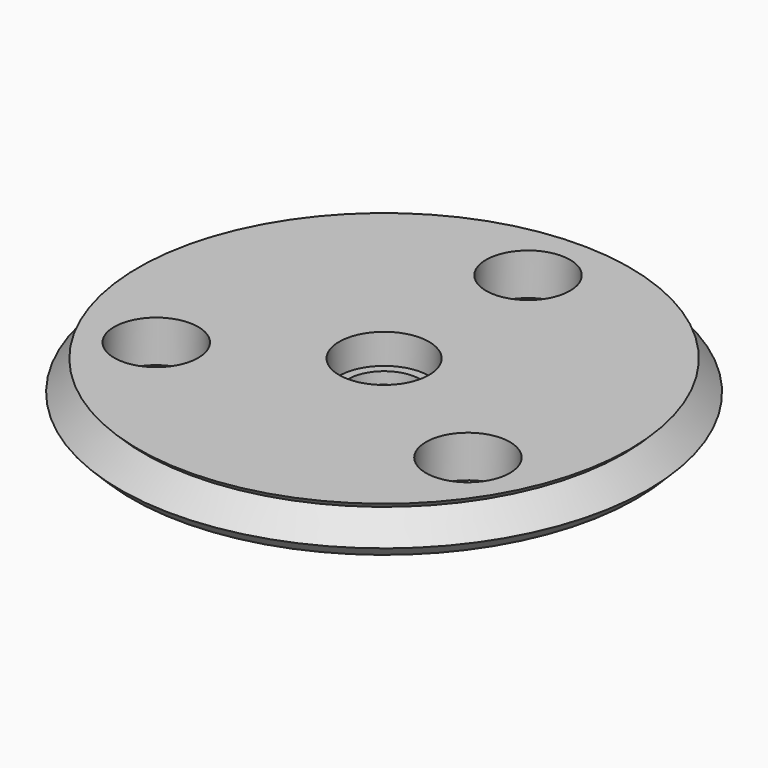
from build123d import *

# Parameters (mm, degrees)
CYLINDER_R     = 1.4
CYLINDER_DEPTH = 10
ARRAY001_COUNT = 3
SKETCH018_W    = 3.15
SKETCH018_H    = 2.3
SKETCH002_W    = 5
SKETCH002_H    = 6.8
ARRAY_Z_COUNT  = 6
ARRAY_Z_PITCH  = 1.6
SKETCH005_W    = 10
SKETCH005_H    = 2.2955317108


with BuildPart() as boltholes:
    # Cylinder → Cylinder (new body)
    with BuildSketch(Plane(origin=(0, 6, -1), x_dir=(1, 0, 0), z_dir=(0, 0, 1))):
        Circle(CYLINDER_R)
    extrude(amount=CYLINDER_DEPTH)

    # Array001: BoltHoles ×3 about axis
    array001_axis = Axis((0, 0, 0), (0, 0, 1))


with BuildPart() as boltholes_1:
    add(boltholes.part)
    for i in range(1, ARRAY001_COUNT):
        add(boltholes.part.rotate(array001_axis, i * 360 / ARRAY001_COUNT))


with BuildPart() as obj1:
    # Sketch018 → Revolution007 (revolve)
    with BuildSketch(Plane.XZ):
        with Locations((1.575, 5.7267413876)):
            Rectangle(SKETCH018_W, SKETCH018_H)
    revolve(axis=Axis((0, 0, 0), (0, 0, 1)))


with BuildPart() as obj2:
    # Sketch007 → Revolution006 (revolve)
    with BuildSketch(Plane.XZ):
        with BuildLine():
            ThreePointArc((1.5, 1.7955317108), (0.867020761, 2.4322916436), (0, 2.6655317108))
            Line((0, 2.6655317108), (0, 0.7955317108))
            Line((0, 0.7955317108), (1.5, 0.7955317108))
            Line((1.5, 1.7955317108), (1.5, 0.7955317108))
        make_face()
    revolve(axis=Axis((0, 0, 0), (0, 0, 1)))


with BuildPart() as obj3:
    # Sketch002 → Revolution002 (revolve)
    with BuildSketch(Plane.XZ):
        with Locations((7.5, 3.8)):
            Rectangle(SKETCH002_W, SKETCH002_H)
    revolve(axis=Axis((0, 0, 0), (0, 0, 1)))


with BuildPart() as innergroovetool:
    # Sketch001 → Revolution001 (revolve)
    with BuildSketch(Plane.XZ):
        Polygon((4, 8), (4, 6.4), (8, 6.4), (8.8, 7.2), (8, 8), align=None)
    revolve(axis=Axis((0, 0, 0), (0, 0, 1)))

    # Array Z: InnerGrooveTool ×6


with BuildPart() as innergroovetool_1:
    add(innergroovetool.part)
    with Locations(*[(0, 0, -i * ARRAY_Z_PITCH) for i in range(1, ARRAY_Z_COUNT)]):
        add(innergroovetool.part)

    # Common: intersect obj3
    add(obj3.part, mode=Mode.INTERSECT)


with BuildPart() as clone_of_boltholes001:
    # Sketch → Revolution (revolve)
    with BuildSketch(Plane.XZ):
        Polygon((1.2, 0.4), (8, 0.4), (8, 7.2), (2.8, 7.2), (1.2, 2.2), align=None)
    revolve(axis=Axis((0, 0, 0), (0, 0, 1)))

    # Fusion001: union InnerGrooveTool
    add(innergroovetool_1.part)

    # Cut: cut obj2
    add(obj2.part, mode=Mode.SUBTRACT)

    # Cut003: cut obj1
    add(obj1.part, mode=Mode.SUBTRACT)

    # Cut001: cut BoltHoles
    add(boltholes_1.part, mode=Mode.SUBTRACT)


with BuildPart() as lowercommon:
    # Sketch005 → Revolution004 (revolve)
    with BuildSketch(Plane.XZ):
        with Locations((5, 0.6477658554)):
            Rectangle(SKETCH005_W, SKETCH005_H)
    revolve(axis=Axis((0, 0, 0), (0, 0, 1)))

    # Common001: intersect Clone of BoltHoles001
    add(clone_of_boltholes001.part, mode=Mode.INTERSECT)


solid = lowercommon.part
